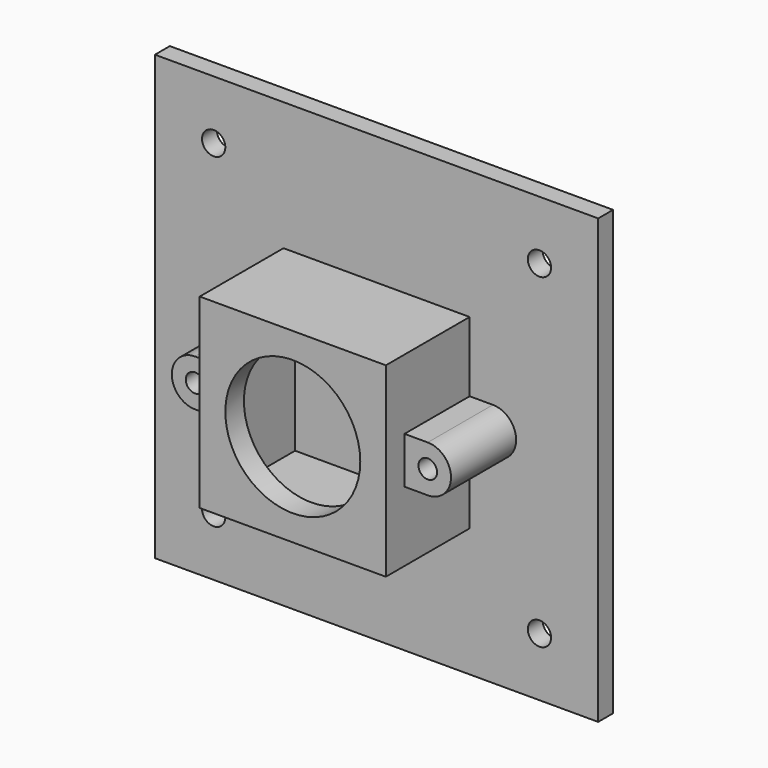
from build123d import *

# Parameters (mm, degrees)
F0_W     = 38.1
F0_H     = 38.1
F0_R     = 1
F1_DEPTH = 1.6
F2_R     = 0.8
F2_W     = 14
F2_H     = 14
F3_DEPTH = 7
F4_W     = 16
F4_H     = 16
F4_R     = 5.8
F5_DEPTH = 2


with BuildPart() as f1:
    # F0 (on Front) → F1 (new body)
    with BuildSketch(Plane.XZ):
        Rectangle(F0_W, F0_H)
        with Locations((-14, -14)):
            Circle(F0_R, mode=Mode.SUBTRACT)
        with Locations((14, -14)):
            Circle(F0_R, mode=Mode.SUBTRACT)
        with Locations((-10, 0)):
            Circle(F0_R, mode=Mode.SUBTRACT)
        with Locations((-14, 14)):
            Circle(F0_R, mode=Mode.SUBTRACT)
        with Locations((10, 0)):
            Circle(F0_R, mode=Mode.SUBTRACT)
        with Locations((14, 14)):
            Circle(F0_R, mode=Mode.SUBTRACT)
    extrude(amount=F1_DEPTH)


with BuildPart() as f3:
    # F2 (on face) → F3 (new body)
    with BuildSketch(Plane.XZ.offset(1.6)):
        with BuildLine():
            Line((-8, -8), (8, -8))
            Line((8, -8), (8, -2))
            Line((8, -2), (10, -2))
            ThreePointArc((10, -2), (12, 0), (10, 2))
            Line((10, 2), (8, 2))
            Line((8, 2), (8, 8))
            Line((8, 8), (-8, 8))
            Line((-8, 8), (-8, 2))
            Line((-8, 2), (-10, 2))
            ThreePointArc((-10, 2), (-12, 0), (-10, -2))
            Line((-10, -2), (-8, -2))
            Line((-8, -2), (-8, -8))
        make_face()
        with Locations((-10, 0)):
            Circle(F2_R, mode=Mode.SUBTRACT)
        Rectangle(F2_W, F2_H, mode=Mode.SUBTRACT)
        with Locations((10, 0)):
            Circle(F2_R, mode=Mode.SUBTRACT)
    extrude(amount=F3_DEPTH)

    # F4 (on face) → F5 (join)
    with BuildSketch(Plane.XZ.offset(8.6)):
        Rectangle(F4_W, F4_H)
        Circle(F4_R, mode=Mode.SUBTRACT)
    extrude(amount=F5_DEPTH)


solid = Compound([f1.part, f3.part])
